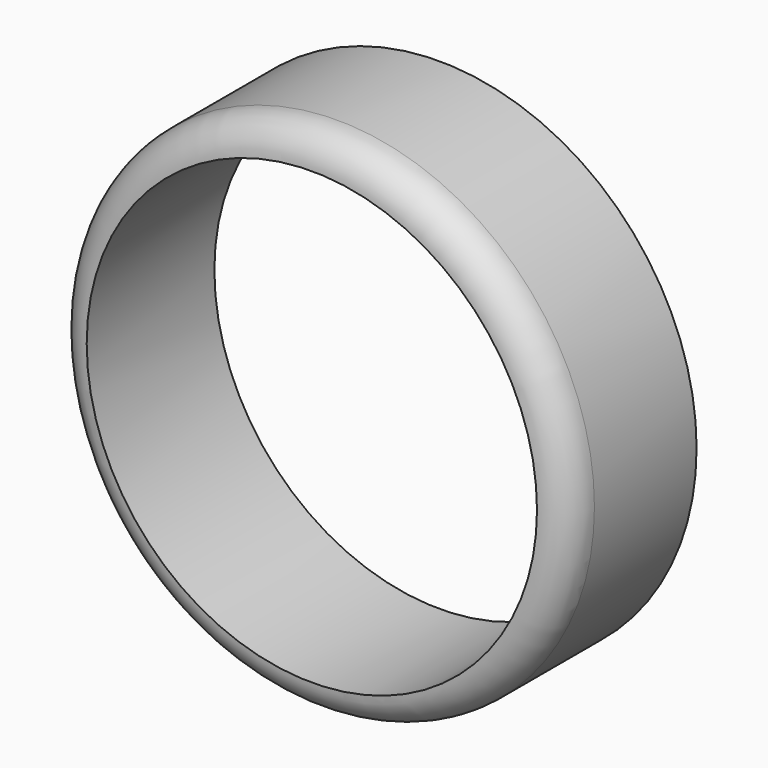
from build123d import *

# Parameters (mm, degrees)
F0_R      = 40.269376
F1_DEPTH  = 25
F2_R      = 5
F1_FACE_R = 35.269376
F3_DEPTH  = 103


with BuildPart() as f1:
    # F0 (on Front) → F1 (new body)
    with BuildSketch(Plane.XZ):
        with Locations((0, -5.179171)):
            Circle(F0_R)
    extrude(amount=F1_DEPTH)

    # F2
    f2_edges = [f1.edges().sort_by_distance(p)[0] for p in [
        (-40.269376, -25, -5.179171),
    ]]
    fillet(f2_edges, radius=F2_R)

    # F1_face (on face) → F3 (cut)
    with BuildSketch(Plane(origin=(0, -25, -5.179171), x_dir=(1, 0, 0), z_dir=(0, -1, 0))):
        Circle(F1_FACE_R)
    extrude(amount=-F3_DEPTH, mode=Mode.SUBTRACT)


with BuildPart() as f4_1:
    # F4: copy of F1
    add(f1.part)


solid = Compound([f1.part, f4_1.part])
